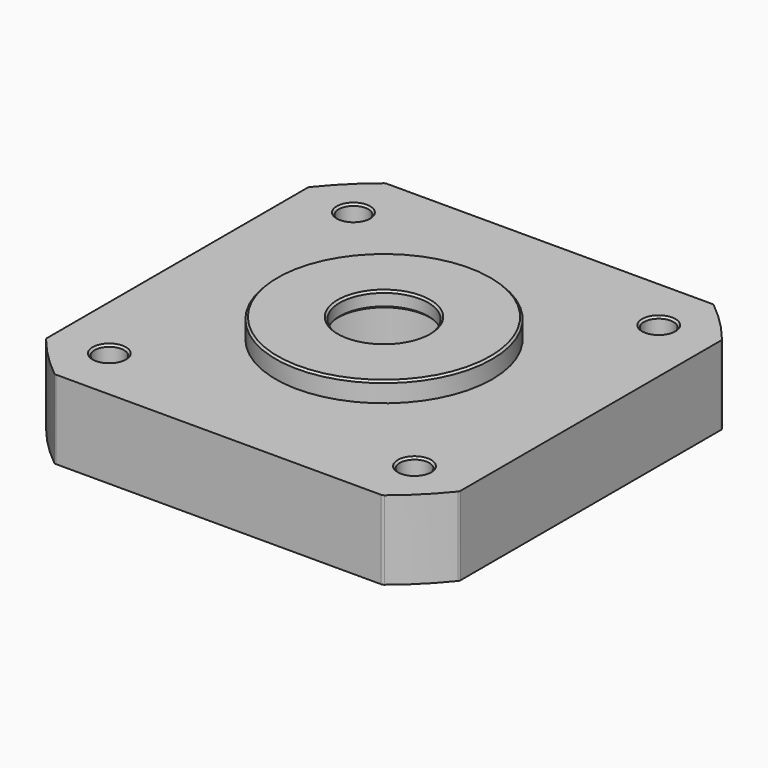
from build123d import *

# Parameters (mm, degrees)
SKETCH015_R     = 4.5
SKETCH015_R_2   = 1.5
PAD008_DEPTH    = 8
SKETCH016_R     = 11
SKETCH016_R_2   = 4.5
PAD009_DEPTH    = 2
SKETCH017_R     = 8
POCKET004_DEPTH = 8.4
CHAMFER003_SIZE = 0.2
FILLET002_R     = 0.4


with BuildPart() as part:
    # Sketch015 → Pad008 (new body)
    with BuildSketch(Plane.XY):
        with BuildLine():
            ThreePointArc((-16.650526, 21), (-18.950462, 18.950462), (-21, 16.650526))
            Line((-21, 16.650526), (-21, -16.650526))
            ThreePointArc((-21, -16.650526), (-18.950462, -18.950462), (-16.650526, -21))
            Line((-16.650526, -21), (16.650526, -21))
            ThreePointArc((16.650526, -21), (18.950462, -18.950462), (21, -16.650526))
            Line((21, 16.650526), (21, -16.650526))
            ThreePointArc((21, 16.650526), (18.950462, 18.950462), (16.650526, 21))
            Line((-16.650526, 21), (16.650526, 21))
        make_face()
        Circle(SKETCH015_R, mode=Mode.SUBTRACT)
        with Locations((-15.5, 15.5)):
            Circle(SKETCH015_R_2, mode=Mode.SUBTRACT)
        with Locations((15.5, 15.5)):
            Circle(SKETCH015_R_2, mode=Mode.SUBTRACT)
        with Locations((15.5, -15.5)):
            Circle(SKETCH015_R_2, mode=Mode.SUBTRACT)
        with Locations((-15.5, -15.5)):
            Circle(SKETCH015_R_2, mode=Mode.SUBTRACT)
    extrude(amount=PAD008_DEPTH)

    # Sketch016 (on Face15 of Pad008) → Pad009 (join)
    with BuildSketch(Plane.XY.offset(8)):
        Circle(SKETCH016_R)
        Circle(SKETCH016_R_2, mode=Mode.SUBTRACT)
    extrude(amount=PAD009_DEPTH)

    # Sketch017 → Pocket004 (cut)
    with BuildSketch(Plane.XY):
        Circle(SKETCH017_R)
    extrude(amount=POCKET004_DEPTH, mode=Mode.SUBTRACT)

    # Chamfer003
    chamfer003_edges = [part.edges().sort_by_distance(p)[0] for p in [
        (-11, 0, 10),
        (14, 15.5, 8),
        (-17, 15.5, 8),
        (-17, -15.5, 8),
        (14, -15.5, 8),
        (-4.5, 0, 10),
        (-4.5, 0, 8.4),
    ]]
    chamfer(chamfer003_edges, length=CHAMFER003_SIZE)

    # Fillet002
    fillet002_edges = [part.edges().sort_by_distance(p)[0] for p in [
        (16.650526, 21, 4),
        (21, 16.650526, 4),
        (21, -16.650526, 4),
        (16.650526, -21, 4),
        (-21, -16.650526, 4),
        (-16.650526, -21, 4),
        (-21, 16.650526, 4),
        (-16.650526, 21, 4),
    ]]
    fillet(fillet002_edges, radius=FILLET002_R)


with BuildPart() as part_1:
    # Body005 placement: moved
    add(part.part.moved(Location((0, 0, 29.4))))


solid = part_1.part
